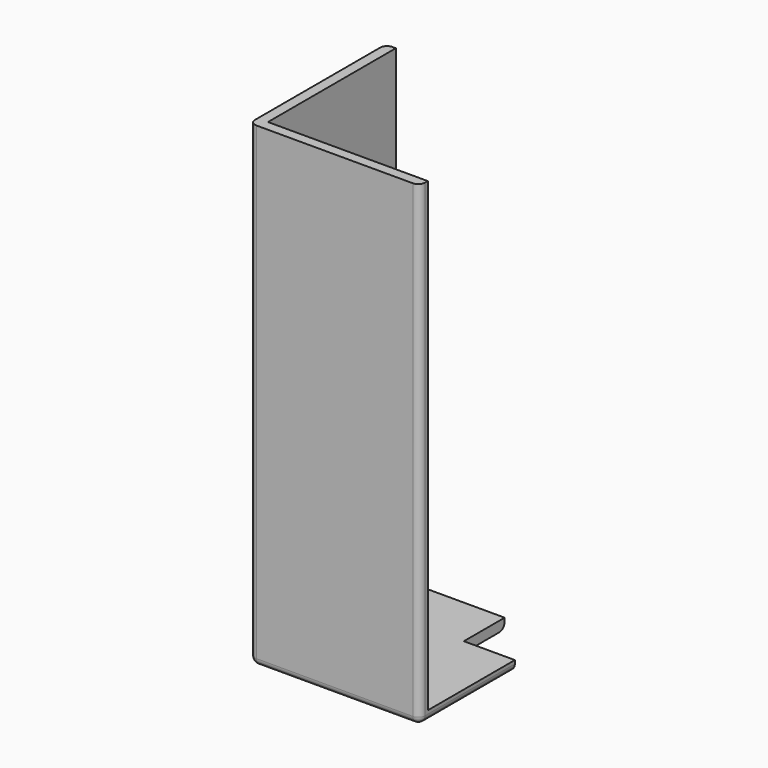
from build123d import *

# Parameters (mm, degrees)
F1_DEPTH = 70
F3_DEPTH = 25
F4_R     = 1
F5_R     = 1
F6_W     = 24.6687295064
F6_H     = 11.3869960284
F7_DEPTH = 5


with BuildPart() as f1:
    # F0 (on Top) → F1 (new body)
    with BuildSketch(Plane.XY):
        Polygon((0, 25), (0, 0), (25, 0), (25, 1.5), (1.5, 1.5), (1.5, 25), align=None)
    extrude(amount=F1_DEPTH)

    # F2 (on Front) → F3 (join)
    with BuildSketch(Plane.XZ):
        Polygon((0, 25), (0, 0), (25, 0), (25, 1.5), (1.5, 1.5), (1.5, 25), align=None)
    extrude(amount=-F3_DEPTH)

    # F4
    f4_edges = [f1.edges().sort_by_distance(p)[0] for p in [
        (0, 0, 35),
        (0, 12.5, 0),
        (12.5, 0, 0),
    ]]
    fillet(f4_edges, radius=F4_R)

    # F5
    f5_edges = [f1.edges().sort_by_distance(p)[0] for p in [
        (25, 13, 0),
        (13, 25, 0),
        (25, 25, 0.75),
    ]]
    fillet(f5_edges, radius=F5_R)

    # F6 (on face) → F7 (cut)
    with BuildSketch(Plane(origin=(0, 0, 0), x_dir=(1, 0, 0), z_dir=(0, 0, -1))):
        with Locations((29.8343647532, -23.1934980142)):
            Rectangle(F6_W, F6_H)
    extrude(amount=-F7_DEPTH, mode=Mode.SUBTRACT)


solid = f1.part
